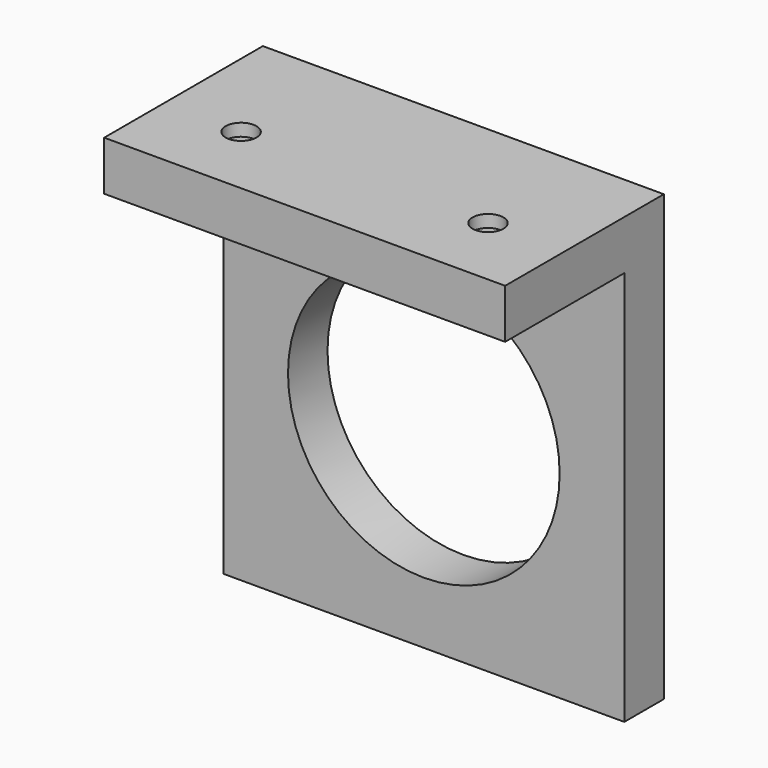
from build123d import *

# Parameters (mm, degrees)
F0_W           = 32.4746801579
F0_H           = 12.0628447294
F1_DEPTH       = 4
F2_D           = 2.5
F2_DEPTH       = 13.5
F2_CBORE_D     = 6.5
F2_CBORE_DEPTH = 3
F2_TIP         = 0.7510757738
F3_W           = 32.4746801579
F3_H           = 4
F3_H_2         = 32
F3_R           = 11
F4_DEPTH       = 4


with BuildPart() as f1:
    # F0 (on Top) → F1 (new body)
    with BuildSketch(Plane.XY):
        Rectangle(F0_W, F0_H)
    extrude(amount=F1_DEPTH)

    # F2
    with Locations(Plane(origin=(0, 0, 0), x_dir=(1, 0, 0), z_dir=(0, 0, -1))):
        with Locations((10.0235303257, 0), (-9.9764696743, 0)):
            CounterBoreHole(F2_D / 2, F2_CBORE_D / 2, F2_CBORE_DEPTH, depth=F2_DEPTH)
            with Locations((0, 0, -(F2_DEPTH + F2_TIP / 2))):  # 118° drill point
                Cone(0, F2_D / 2, F2_TIP, mode=Mode.SUBTRACT)

    # F3 (on face) → F4 (join)
    with BuildSketch(Plane(origin=(0, 6.0314223647, 0), x_dir=(-1, 0, 0), z_dir=(0, 1, 0))):
        with Locations((0, 2)):
            Rectangle(F3_W, F3_H)
        with Locations((0, -16)):
            Rectangle(F3_W, F3_H_2)
        with Locations((0, -16)):
            Circle(F3_R, mode=Mode.SUBTRACT)
    extrude(amount=F4_DEPTH)


solid = f1.part
